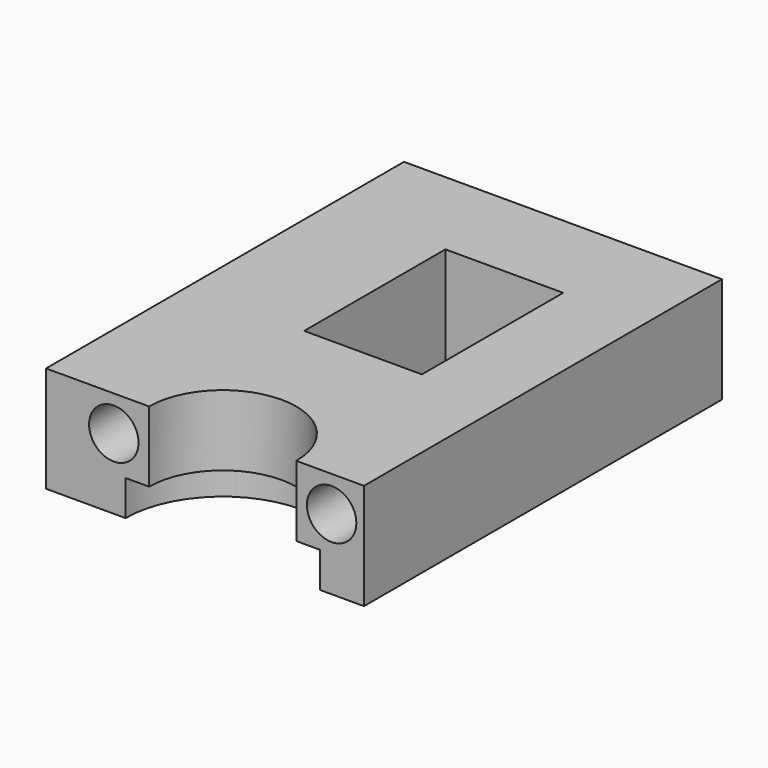
from build123d import *

# Parameters (mm, degrees)
F1_DEPTH = 9
F3_DEPTH = 3
F4_R     = 2.1
F5_DEPTH = 38.001
F6_W     = 10
F6_H     = 15
F7_DEPTH = 9.001


with BuildPart() as f1:
    # F0 (on Top) → F1 (new body)
    with BuildSketch(Plane.XY):
        with BuildLine():
            Line((-15, 38), (-15, 0))
            Line((-15, 0), (-6.25, 0))
            ThreePointArc((-6.25, 0), (0, 6.25), (6.25, 0))
            Line((6.25, 0), (12, 0))
            Line((12, 0), (12, 38))
            Line((12, 38), (-15, 38))
        make_face()
    extrude(amount=F1_DEPTH)

    # F2 (on face) → F3 (cut)
    with BuildSketch(Plane(origin=(0, 0, 0), x_dir=(1, 0, 0), z_dir=(0, 0, -1))):
        with BuildLine():
            ThreePointArc((6.25, 0), (0, -6.25), (-6.25, 0))
            Line((-6.25, 0), (-8.25, 0))
            ThreePointArc((-8.25, 0), (0, -8.25), (8.25, 0))
            Line((8.25, 0), (6.25, 0))
        make_face()
    extrude(amount=-F3_DEPTH, mode=Mode.SUBTRACT)

    # F4 (on Front) → F5 (cut, through all)
    with BuildSketch(Plane.XZ):
        with Locations((-9.25, 6)):
            Circle(F4_R)
        with Locations((9.25, 6)):
            Circle(F4_R)
    extrude(amount=-F5_DEPTH, mode=Mode.SUBTRACT)

    # F6 (on face) → F7 (cut, through all)
    with BuildSketch(Plane.XY.offset(9)):
        with Locations((0, 22.395955)):
            Rectangle(F6_W, F6_H)
    extrude(amount=-F7_DEPTH, mode=Mode.SUBTRACT)


solid = f1.part
